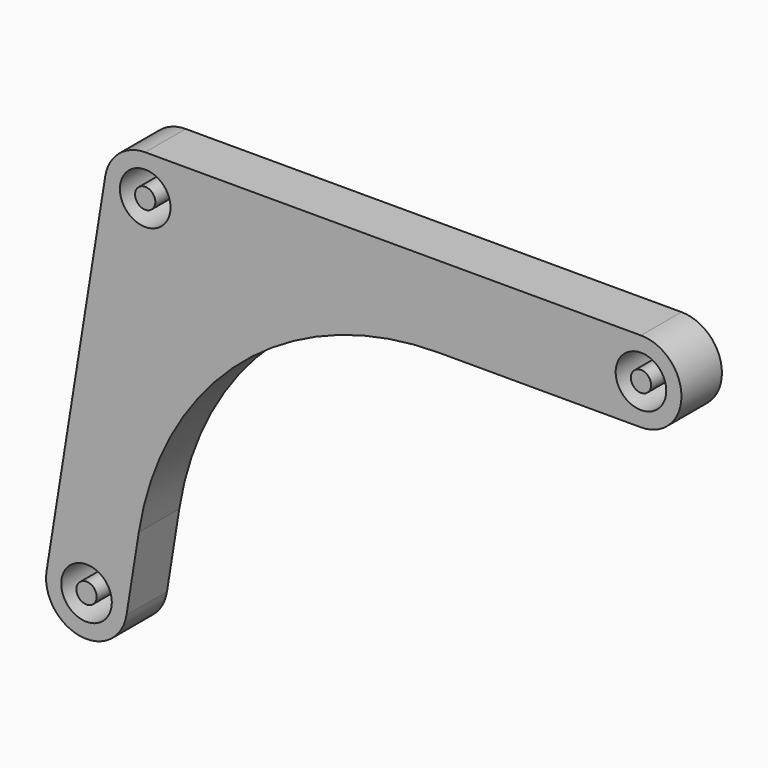
from build123d import *

# Parameters (mm, degrees)
F0_R     = 2.5
F1_DEPTH = 2.5
F2_R     = 1
F3_DEPTH = 5


with BuildPart() as f1:
    # F0 (on Front) → F1 (new body, symmetric)
    with BuildSketch(Plane.XZ):
        with BuildLine():
            Line((49, 4), (0, 4))
            ThreePointArc((0, 4), (-2.59533, 3.043725), (-3.949735, 0.632132))
            Line((-3.949735, 0.632132), (-9.749735, -35.607868))
            ThreePointArc((-9.749735, -35.607868), (-6.432132, -40.189735), (-1.850265, -36.872132))
            Line((-1.850265, -36.872132), (-0.631829, -29.25901))
            Line((-0.631829, -29.25901), (3.410728, -4))
            Line((3.410728, -4), (28.991186, -4))
            Line((28.991186, -4), (49, -4))
            ThreePointArc((49, -4), (53, 0), (49, 4))
        make_face()
        with Locations((-5.8, -36.24)):
            Circle(F0_R, mode=Mode.SUBTRACT)
        Circle(F0_R, mode=Mode.SUBTRACT)
        with Locations((49, 0)):
            Circle(F0_R, mode=Mode.SUBTRACT)
        with BuildLine():
            ThreePointArc((-0.631829, -29.25901), (9.526214, -11.17206), (28.991186, -4))
            Line((28.991186, -4), (3.410728, -4))
            Line((3.410728, -4), (-0.631829, -29.25901))
        make_face()
    extrude(amount=F1_DEPTH, both=True)


with BuildPart() as f3:
    # F2 (on face) → F3 (new body)
    with BuildSketch(Plane.XZ.offset(2.5)):
        Circle(F2_R)
        with Locations((-5.8, -36.24)):
            Circle(F2_R)
        with Locations((49, 0)):
            Circle(F2_R)
    extrude(amount=-F3_DEPTH)


solid = Compound([f1.part, f3.part])
